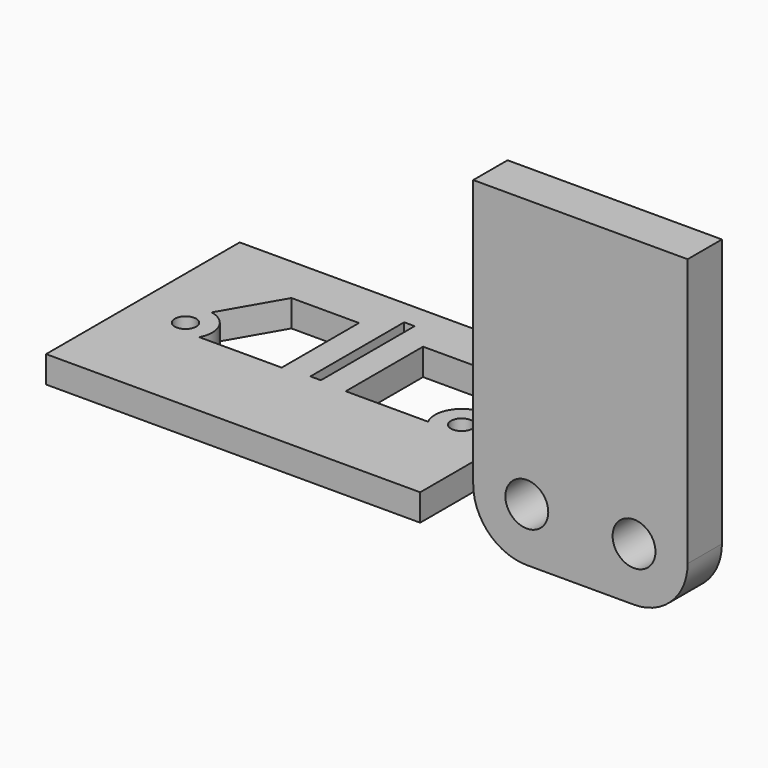
from build123d import *

# Parameters (mm, degrees)
F0_R     = 4
F1_DEPTH = 8
F2_W     = 69.799086
F2_H     = 45.147397
F2_R     = 2
F3_DEPTH = 5


with BuildPart() as f1:
    # F0 (on Front) → F1 (new body)
    with BuildSketch(Plane.XZ):
        with BuildLine():
            ThreePointArc((0, 10), (2.928932, 2.928932), (10, 0))
            Line((10, 0), (30, 0))
            ThreePointArc((30, 0), (37.071068, 2.928932), (40, 10))
            Line((40, 10), (40, 60))
            Line((40, 60), (0, 60))
            Line((0, 60), (0, 10))
        make_face()
        with Locations((10, 10)):
            Circle(F0_R, mode=Mode.SUBTRACT)
        with Locations((30, 10)):
            Circle(F0_R, mode=Mode.SUBTRACT)
    extrude(amount=F1_DEPTH)


with BuildPart() as f3:
    # F2 (on Top) → F3 (new body)
    with BuildSketch(Plane.XY):
        with Locations((-45.387489, 15.309483)):
            Rectangle(F2_W, F2_H)
        with Locations((-70.618095, 13.16747)):
            Circle(F2_R, mode=Mode.SUBTRACT)
        with Locations((-19.074593, 13.160896)):
            Circle(F2_R, mode=Mode.SUBTRACT)
        with BuildLine():
            Line((-50.819374, 10.851256), (-66.186938, 10.851256))
            ThreePointArc((-66.186938, 10.851256), (-66.114042, 15.338531), (-69.669783, 18.076717))
            Line((-69.669783, 18.076717), (-63.432109, 28.880685))
            Line((-63.432109, 28.880685), (-50.819374, 28.880685))
            Line((-50.819374, 28.880685), (-50.819374, 10.851256))
        make_face(mode=Mode.SUBTRACT)
        with BuildLine():
            Line((-23.502247, 10.851256), (-38.869811, 10.851256))
            Line((-38.869811, 10.851256), (-38.869811, 28.880685))
            Line((-38.869811, 28.880685), (-26.257076, 28.880685))
            Line((-26.257076, 28.880685), (-20.019403, 18.076717))
            ThreePointArc((-20.019403, 18.076717), (-23.575143, 15.338531), (-23.502247, 10.851256))
        make_face(mode=Mode.SUBTRACT)
        Polygon((-45.819374, 11.297984), (-45.819374, 33.16747), (-43.869811, 33.16747), (-43.869811, 11.297984), (-44.844593, 11.297984), align=None, mode=Mode.SUBTRACT)
    extrude(amount=F3_DEPTH)


solid = Compound([f1.part, f3.part])
